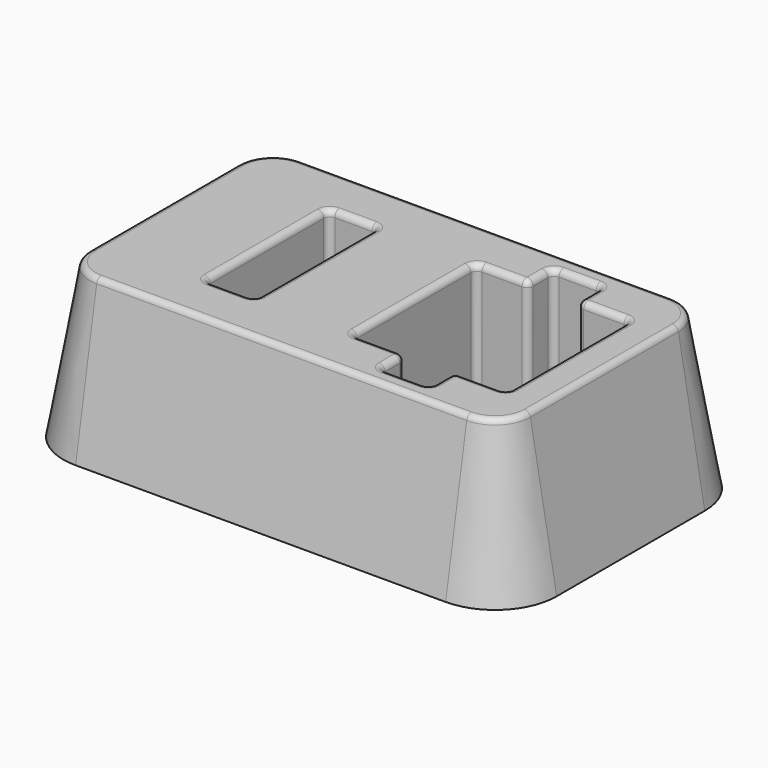
from build123d import *

# Parameters (mm, degrees)
F1_DEPTH = 25
F1_TAPER = 10
F4_DEPTH = 20
F5_DEPTH = 20
F6_T     = -0.7
F7_R     = 1


with BuildPart() as f1:
    # F0 (on Top) → F1 (new body)
    with BuildSketch(Plane.XY):
        with BuildLine():
            ThreePointArc((40, 15), (37.0710678119, 22.0710678119), (30, 25))
            Line((30, 25), (-30, 25))
            ThreePointArc((-30, 25), (-37.0710678119, 22.0710678119), (-40, 15))
            Line((-40, 15), (-40, -15))
            ThreePointArc((-40, -15), (-37.0710678119, -22.0710678119), (-30, -25))
            Line((-30, -25), (30, -25))
            ThreePointArc((30, -25), (37.0710678119, -22.0710678119), (40, -15))
            Line((40, -15), (40, 15))
        make_face()
    extrude(amount=F1_DEPTH, taper=F1_TAPER)

    # F2 (on face) → F4 (cut)
    with BuildSketch(Plane.XY.offset(25)):
        with BuildLine():
            Line((20.3824352339, 17.5), (14.3824352339, 17.5))
            ThreePointArc((14.3824352339, 17.5), (13.6753284527, 17.2071067812), (13.3824352339, 16.5))
            Line((13.3824352339, 16.5), (13.3824352339, 13.5))
            ThreePointArc((13.3824352339, 13.5), (13.0895420151, 12.7928932188), (12.3824352339, 12.5))
            Line((12.3824352339, 12.5), (5.8824352339, 12.5))
            ThreePointArc((5.8824352339, 12.5), (5.1753284527, 12.2071067812), (4.8824352339, 11.5))
            Line((4.8824352339, 11.5), (4.8824352339, -11.5))
            ThreePointArc((4.8824352339, -11.5), (5.1753284527, -12.2071067812), (5.8824352339, -12.5))
            Line((5.8824352339, -12.5), (12.3824352339, -12.5))
            ThreePointArc((12.3824352339, -12.5), (13.0895420151, -12.7928932188), (13.3824352339, -13.5))
            Line((13.3824352339, -13.5), (13.3824352339, -16.5))
            ThreePointArc((13.3824352339, -16.5), (13.6753284527, -17.2071067812), (14.3824352339, -17.5))
            Line((14.3824352339, -17.5), (20.3824352339, -17.5))
            ThreePointArc((20.3824352339, -17.5), (21.0895420151, -17.2071067812), (21.3824352339, -16.5))
            Line((21.3824352339, -16.5), (21.3824352339, -13.5))
            ThreePointArc((21.3824352339, -13.5), (21.6753284527, -12.7928932188), (22.3824352339, -12.5))
            Line((22.3824352339, -12.5), (28.8824352339, -12.5))
            ThreePointArc((28.8824352339, -12.5), (29.5895420151, -12.2071067812), (29.8824352339, -11.5))
            Line((29.8824352339, -11.5), (29.8824352339, 11.5))
            ThreePointArc((29.8824352339, 11.5), (29.5895420151, 12.2071067812), (28.8824352339, 12.5))
            Line((28.8824352339, 12.5), (22.3824352339, 12.5))
            ThreePointArc((22.3824352339, 12.5), (21.6753284527, 12.7928932188), (21.3824352339, 13.5))
            Line((21.3824352339, 13.5), (21.3824352339, 16.5))
            ThreePointArc((21.3824352339, 16.5), (21.0895420151, 17.2071067812), (20.3824352339, 17.5))
        make_face()
    extrude(amount=-F4_DEPTH, mode=Mode.SUBTRACT)

    # F3 (on face) → F5 (cut)
    with BuildSketch(Plane.XY.offset(25)):
        with BuildLine():
            Line((-11.9747403339, 12.5), (-17.9747403339, 12.5))
            ThreePointArc((-17.9747403339, 12.5), (-18.681847115, 12.2071067812), (-18.9747403339, 11.5))
            Line((-18.9747403339, 11.5), (-18.9747403339, -11.5))
            ThreePointArc((-18.9747403339, -11.5), (-18.681847115, -12.2071067812), (-17.9747403339, -12.5))
            Line((-17.9747403339, -12.5), (-11.9747403339, -12.5))
            ThreePointArc((-11.9747403339, -12.5), (-11.2676335527, -12.2071067812), (-10.9747403339, -11.5))
            Line((-10.9747403339, -11.5), (-10.9747403339, 11.5))
            ThreePointArc((-10.9747403339, 11.5), (-11.2676335527, 12.2071067812), (-11.9747403339, 12.5))
        make_face()
    extrude(amount=-F5_DEPTH, mode=Mode.SUBTRACT)

    # F6
    f6_openings = [f1.faces().sort_by_distance(p)[0] for p in [
        (0, 0, 0),
    ]]
    offset(amount=F6_T, openings=f6_openings, kind=Kind.INTERSECTION)

    # F7
    f7_edges = [f1.edges().sort_by_distance(p)[0] for p in [
        (33.954018, 18.954018, 25),
        (35.591825, 0, 25),
        (0, 20.591825, 25),
        (33.954018, -18.954018, 25),
        (-33.954018, 18.954018, 25),
        (0, -20.591825, 25),
        (-35.591825, 0, 25),
        (-33.954018, -18.954018, 25),
        (-11.267634, 12.207107, 25),
        (-14.97474, 12.5, 25),
        (-18.681847, 12.207107, 25),
        (-18.97474, 0, 25),
        (-18.681847, -12.207107, 25),
        (-14.97474, -12.5, 25),
        (-11.267634, -12.207107, 25),
        (-10.97474, 0, 25),
        (21.382435, 15, 25),
        (21.675328, 12.792893, 25),
        (21.089542, 17.207107, 25),
        (25.632435, 12.5, 25),
        (17.382435, 17.5, 25),
        (29.589542, 12.207107, 25),
        (13.675328, 17.207107, 25),
        (29.882435, 0, 25),
        (13.382435, 15, 25),
        (29.589542, -12.207107, 25),
        (13.089542, 12.792893, 25),
        (25.632435, -12.5, 25),
        (9.132435, 12.5, 25),
        (21.675328, -12.792893, 25),
        (5.175328, 12.207107, 25),
        (21.382435, -15, 25),
        (4.882435, 0, 25),
        (21.089542, -17.207107, 25),
        (5.175328, -12.207107, 25),
        (17.382435, -17.5, 25),
        (9.132435, -12.5, 25),
        (13.675328, -17.207107, 25),
        (13.089542, -12.792893, 25),
        (13.382435, -15, 25),
    ]]
    fillet(f7_edges, radius=F7_R)


solid = f1.part
